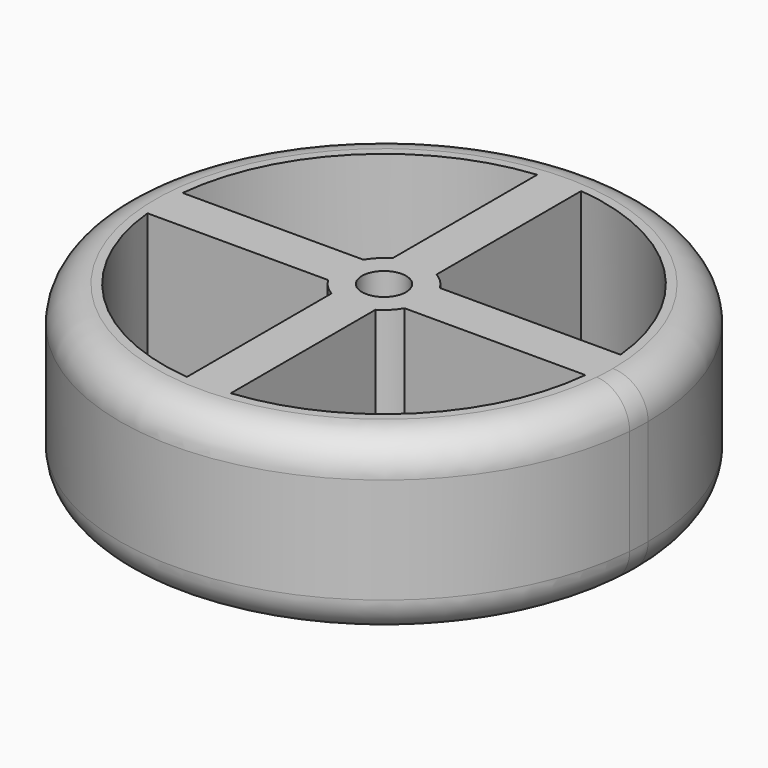
from build123d import *

# Parameters (mm, degrees)
F0_R     = 3.175
F1_DEPTH = 25.4
F2_R     = 5.08


with BuildPart() as f1:
    # F0 (on Top) → F1 (new body)
    with BuildSketch(Plane.XY):
        with BuildLine():
            ThreePointArc((37.967478, -3.175), (38.066855, -1.588882), (38.1, 0))
            ThreePointArc((38.1, 0), (-38.066855, 1.588882), (37.967478, -3.175))
        make_face()
        with BuildLine():
            ThreePointArc((-3.175, -31.590851), (-22.45064, -22.45064), (-31.590851, -3.175))
            Line((-31.590851, -3.175), (-5.499261, -3.175))
            ThreePointArc((-5.499261, -3.175), (-4.490128, -4.490128), (-3.175, -5.499261))
            Line((-3.175, -5.499261), (-3.175, -31.590851))
        make_face(mode=Mode.SUBTRACT)
        with BuildLine():
            ThreePointArc((31.590851, -3.175), (22.45064, -22.45064), (3.175, -31.590851))
            Line((3.175, -31.590851), (3.175, -5.499261))
            ThreePointArc((3.175, -5.499261), (4.490128, -4.490128), (5.499261, -3.175))
            Line((5.499261, -3.175), (31.590851, -3.175))
        make_face(mode=Mode.SUBTRACT)
        with BuildLine():
            Line((-3.175, 31.590851), (-3.175, 5.499261))
            ThreePointArc((-3.175, 5.499261), (-4.490128, 4.490128), (-5.499261, 3.175))
            Line((-5.499261, 3.175), (-31.590851, 3.175))
            ThreePointArc((-31.590851, 3.175), (-22.45064, 22.45064), (-3.175, 31.590851))
        make_face(mode=Mode.SUBTRACT)
        Circle(F0_R, mode=Mode.SUBTRACT)
        with BuildLine():
            ThreePointArc((5.499261, 3.175), (4.490128, 4.490128), (3.175, 5.499261))
            Line((3.175, 5.499261), (3.175, 31.590851))
            ThreePointArc((3.175, 31.590851), (22.45064, 22.45064), (31.590851, 3.175))
            Line((31.590851, 3.175), (5.499261, 3.175))
        make_face(mode=Mode.SUBTRACT)
    extrude(amount=F1_DEPTH)

    # F2
    f2_edges = [f1.edges().sort_by_distance(p)[0] for p in [
        (-37.967478, 3.175, 25.4),
        (-37.967478, 3.175, 0),
    ]]
    fillet(f2_edges, radius=F2_R)


solid = f1.part
